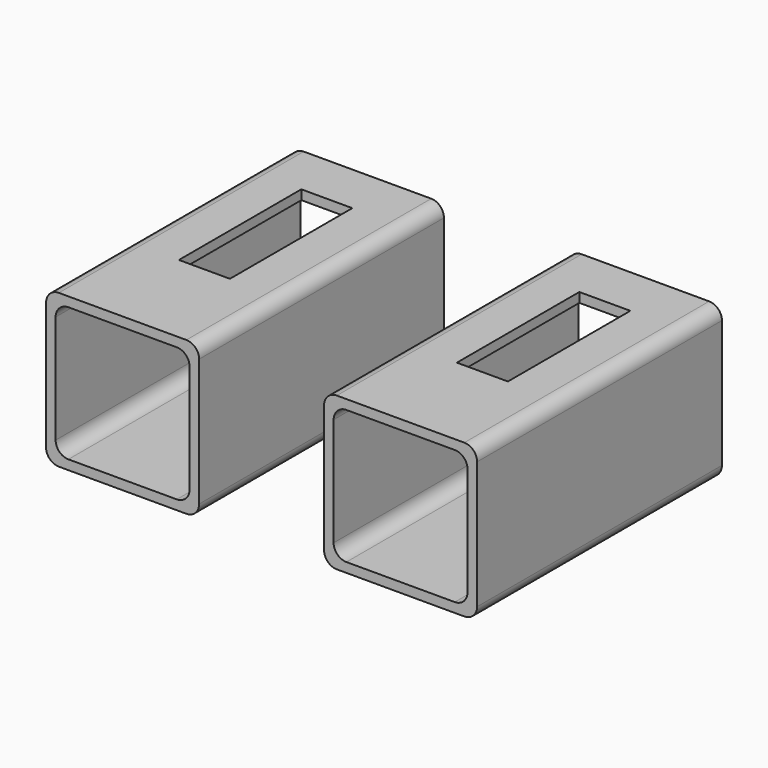
from build123d import *

# Parameters (mm, degrees)
F1_DEPTH = 152.4
F2_R     = 6.35
F3_DEPTH = 4.7625
F4_W     = 25.4
F4_H     = 76.2
F5_DEPTH = 4.7625


with BuildPart() as f1:
    # F0 (on Front) → F1 (new body)
    with BuildSketch(Plane.XZ):
        with BuildLine():
            ThreePointArc((-38.1, -31.75), (-36.240128, -36.240128), (-31.75, -38.1))
            Line((-31.75, -38.1), (31.75, -38.1))
            ThreePointArc((31.75, -38.1), (36.240128, -36.240128), (38.1, -31.75))
            Line((38.1, -31.75), (38.1, 31.75))
            ThreePointArc((38.1, 31.75), (36.240128, 36.240128), (31.75, 38.1))
            Line((31.75, 38.1), (-31.75, 38.1))
            ThreePointArc((-31.75, 38.1), (-36.240128, 36.240128), (-38.1, 31.75))
            Line((-38.1, 31.75), (-38.1, -31.75))
        make_face()
        with BuildLine():
            ThreePointArc((-33.3375, 26.9875), (-31.477628, 31.477628), (-26.9875, 33.3375))
            Line((-26.9875, 33.3375), (26.9875, 33.3375))
            ThreePointArc((26.9875, 33.3375), (31.477628, 31.477628), (33.3375, 26.9875))
            Line((33.3375, 26.9875), (33.3375, -26.9875))
            ThreePointArc((33.3375, -26.9875), (31.477628, -31.477628), (26.9875, -33.3375))
            Line((26.9875, -33.3375), (-26.9875, -33.3375))
            ThreePointArc((-26.9875, -33.3375), (-31.477628, -31.477628), (-33.3375, -26.9875))
            Line((-33.3375, -26.9875), (-33.3375, 26.9875))
        make_face(mode=Mode.SUBTRACT)
    extrude(amount=F1_DEPTH)

    # F2 (on face) → F3 (cut, through all)
    with BuildSketch(Plane(origin=(-38.1, 0, 0), x_dir=(0, -1, 0), z_dir=(-1, 0, 0))):
        with Locations((63.5, 0)):
            Circle(F2_R)
    extrude(amount=-F3_DEPTH, mode=Mode.SUBTRACT)

    # F4 (on face) → F5 (cut, through all)
    with BuildSketch(Plane.XY.offset(38.1)):
        with Locations((0.103837, -63.5)):
            Rectangle(F4_W, F4_H)
    extrude(amount=-F5_DEPTH, mode=Mode.SUBTRACT)


with BuildPart() as f6_1:
    # F6: copy of F1
    add(f1.part.moved(Location((138.43, 0, 0))))


solid = Compound([f1.part, f6_1.part])
